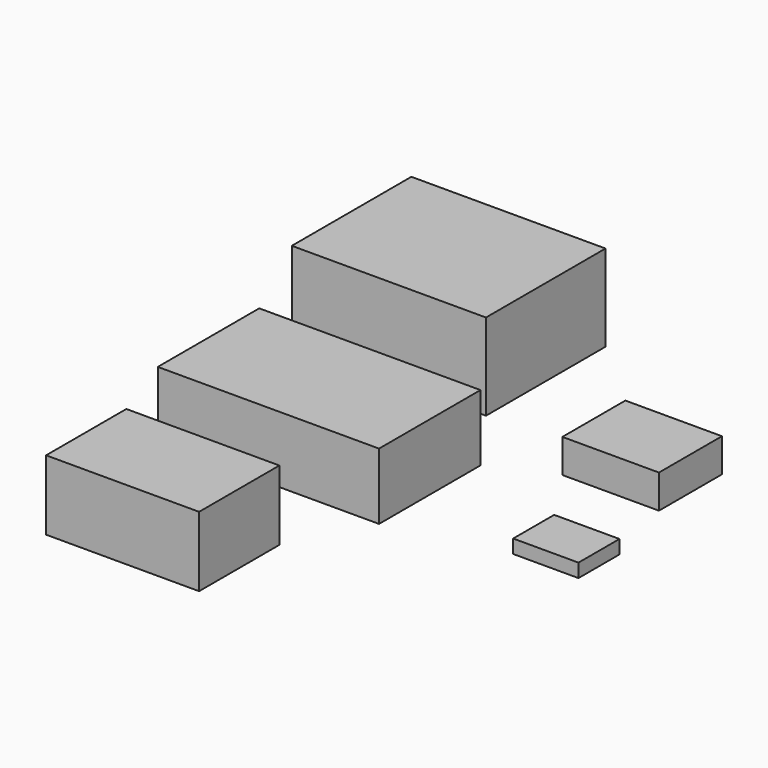
from build123d import *

# Parameters (mm, degrees)
F0_W     = 267.716
F0_H     = 153.416
F1_DEPTH = 80.264
F2_W     = 185.166
F2_H     = 121.412
F3_DEPTH = 84.582
F4_W     = 234.95
F4_H     = 180.848
F5_DEPTH = 104.648
F6_W     = 79
F6_H     = 62
F7_DEPTH = 16.5
F8_W     = 116.84
F8_H     = 95.25
F9_DEPTH = 40.64


with BuildPart() as f1:
    # F0 (on Top) → F1 (new body)
    with BuildSketch(Plane.XY):
        Rectangle(F0_W, F0_H)
    extrude(amount=F1_DEPTH)


with BuildPart() as f3:
    # F2 (on Top) → F3 (new body)
    with BuildSketch(Plane.XY):
        with Locations((-5.48432, -229.742248)):
            Rectangle(F2_W, F2_H)
    extrude(amount=F3_DEPTH)


with BuildPart() as f5:
    # F4 (on Top) → F5 (new body)
    with BuildSketch(Plane.XY):
        with Locations((-43.0484, 249.742784)):
            Rectangle(F4_W, F4_H)
    extrude(amount=F5_DEPTH)


with BuildPart() as f7:
    # F6 (on Top) → F7 (new body)
    with BuildSketch(Plane.XY):
        with Locations((310.785981, -14.557968)):
            Rectangle(F6_W, F6_H)
    extrude(amount=F7_DEPTH)


with BuildPart() as f9:
    # F8 (on Top) → F9 (new body)
    with BuildSketch(Plane.XY):
        with Locations((265.065399, 157.308737)):
            Rectangle(F8_W, F8_H)
    extrude(amount=F9_DEPTH)


solid = Compound([f1.part, f3.part, f5.part, f7.part, f9.part])
